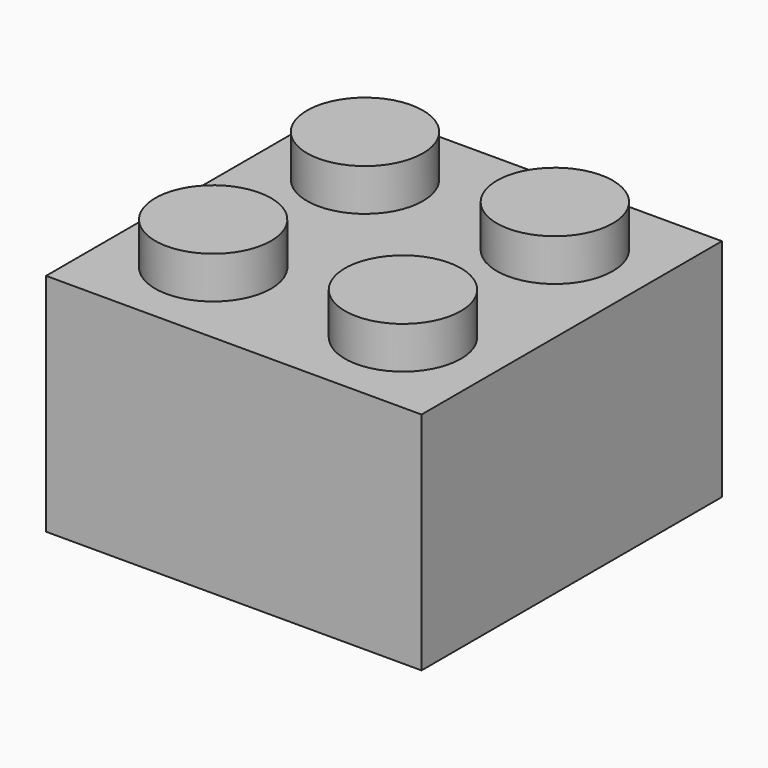
from build123d import *

# Parameters (mm, degrees)
F0_W     = 15.875
F0_H     = 15.875
F1_DEPTH = 4.7625
F2_R     = 2.4511
F3_DEPTH = 1.778
F4_W     = 13.589
F4_H     = 13.589
F4_R     = 3.2385
F5_DEPTH = 8.382
F6_R     = 2.4765
F7_DEPTH = 8.382


with BuildPart() as f1:
    # F0 (on Top) → F1 (new body, symmetric)
    with BuildSketch(Plane.XY):
        Rectangle(F0_W, F0_H)
    extrude(amount=F1_DEPTH, both=True)

    # F2 (on face) → F3 (join)
    with BuildSketch(Plane.XY.offset(4.7625)):
        with Locations((-4.0132, -4.0132)):
            Circle(F2_R)
        with Locations((4.0132, -4.0132)):
            Circle(F2_R)
        with Locations((4.0132, 4.0132)):
            Circle(F2_R)
        with Locations((-4.0132, 4.0132)):
            Circle(F2_R)
    extrude(amount=F3_DEPTH)

    # F4 (on face) → F5 (cut)
    with BuildSketch(Plane(origin=(0, 0, -4.7625), x_dir=(1, 0, 0), z_dir=(0, 0, -1))):
        Rectangle(F4_W, F4_H)
        Circle(F4_R, mode=Mode.SUBTRACT)
    extrude(amount=-F5_DEPTH, mode=Mode.SUBTRACT)

    # F6 (on face) → F7 (cut)
    with BuildSketch(Plane(origin=(0, 0, -4.7625), x_dir=(1, 0, 0), z_dir=(0, 0, -1))):
        Circle(F6_R)
    extrude(amount=-F7_DEPTH, mode=Mode.SUBTRACT)


solid = f1.part
